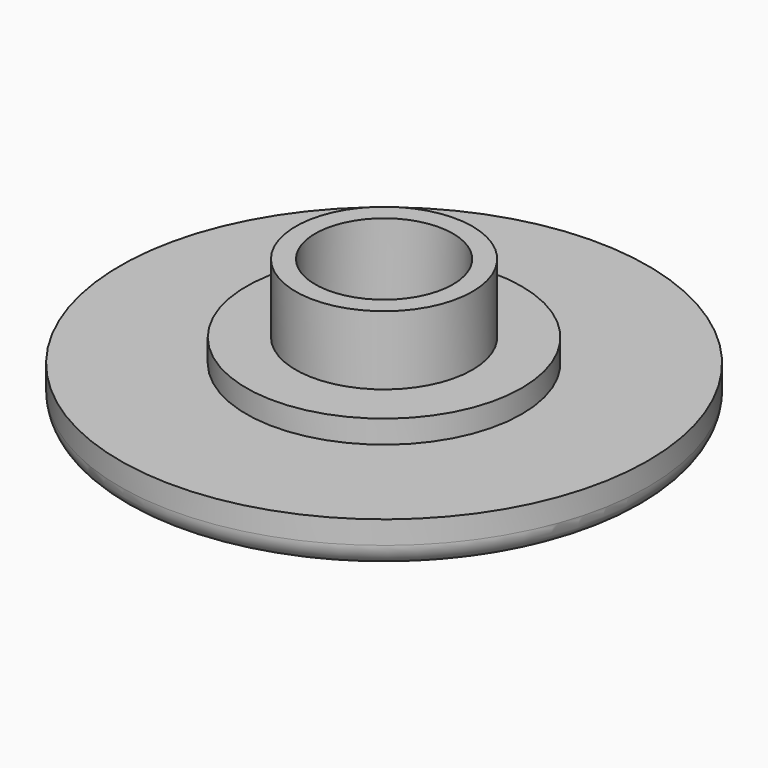
from build123d import *

# Parameters (mm, degrees)
F0_R     = 11.5
F1_DEPTH = 2
F2_R     = 1
F3_R     = 3.85
F3_R_2   = 3
F4_DEPTH = 4
F3_R_3   = 6
F5_DEPTH = 1


with BuildPart() as f1:
    # F0 (on Top) → F1 (new body)
    with BuildSketch(Plane.XY):
        Circle(F0_R)
    extrude(amount=F1_DEPTH)

    # F2
    f2_edges = [f1.edges().sort_by_distance(p)[0] for p in [
        (-11.5, 0, 0),
    ]]
    fillet(f2_edges, radius=F2_R)

    # F3 (on face) → F4 (join)
    with BuildSketch(Plane.XY.offset(2)):
        Circle(F3_R)
        Circle(F3_R_2, mode=Mode.SUBTRACT)
    extrude(amount=F4_DEPTH)

    # F3 (on face) → F5 (join)
    with BuildSketch(Plane.XY.offset(2)):
        Circle(F3_R_3)
        Circle(F3_R, mode=Mode.SUBTRACT)
    extrude(amount=F5_DEPTH)


solid = f1.part
